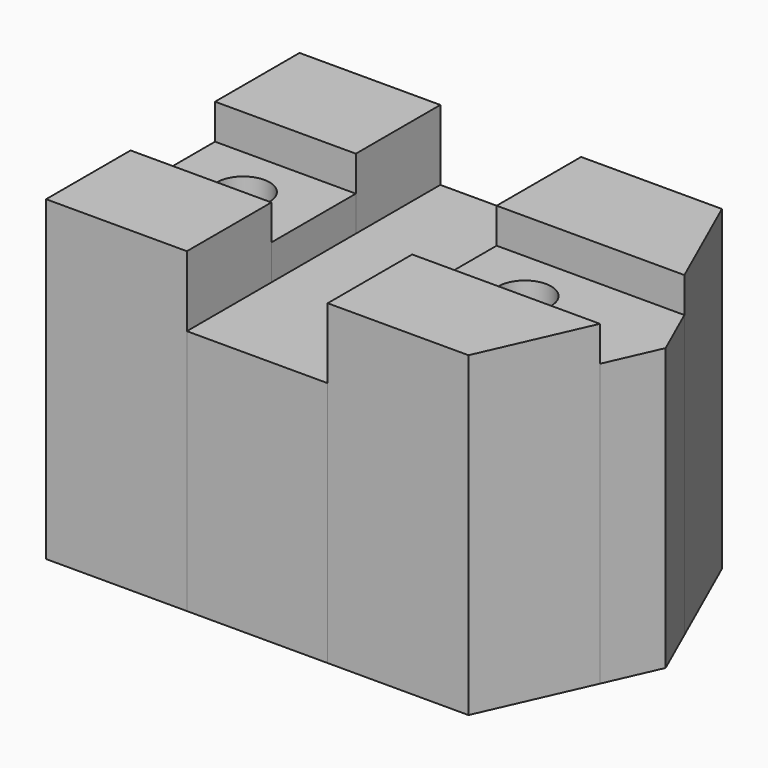
from build123d import *

# Parameters (mm, degrees)
F0_W     = 50.8
F0_H     = 38.1
F1_DEPTH = 114.3
F2_DEPTH = 88.9
F0_R     = 9.525
F3_DEPTH = 101.6


with BuildPart() as f1:
    # F0 (on Top) → F1 (new body)
    with BuildSketch(Plane.XY):
        with Locations((25.4, 19.05)):
            Rectangle(F0_W, F0_H)
        Polygon((101.6, 0), (152.4, 0), (169.337734, 38.1), (152.4, 38.1), (101.6, 38.1), align=None)
        Polygon((101.6, 114.3), (101.6, 76.2), (152.4, 76.2), (169.337734, 76.2), (152.4, 114.3), align=None)
        with Locations((25.4, 95.25)):
            Rectangle(F0_W, F0_H)
    extrude(amount=F1_DEPTH)


with BuildPart() as f2:
    # F0 (on Top) → F2 (new body)
    with BuildSketch(Plane.XY):
        Polygon((50.8, 0), (101.6, 0), (101.6, 38.1), (101.6, 76.2), (101.6, 114.3), (50.8, 114.3), (50.8, 76.2), (50.8, 38.1), align=None)
    extrude(amount=F2_DEPTH)


with BuildPart() as f3:
    # F0 (on Top) → F3 (new body)
    with BuildSketch(Plane.XY):
        with Locations((25.4, 57.15)):
            Rectangle(F0_W, F0_H)
        with Locations((25.4, 57.15)):
            Circle(F0_R, mode=Mode.SUBTRACT)
        Polygon((152.4, 38.1), (169.337734, 38.1), (177.806601, 57.15), (169.337734, 76.2), (152.4, 76.2), (101.6, 76.2), (101.6, 38.1), align=None)
        with Locations((127, 57.15)):
            Circle(F0_R, mode=Mode.SUBTRACT)
    extrude(amount=F3_DEPTH)


solid = Compound([f1.part, f2.part, f3.part])
